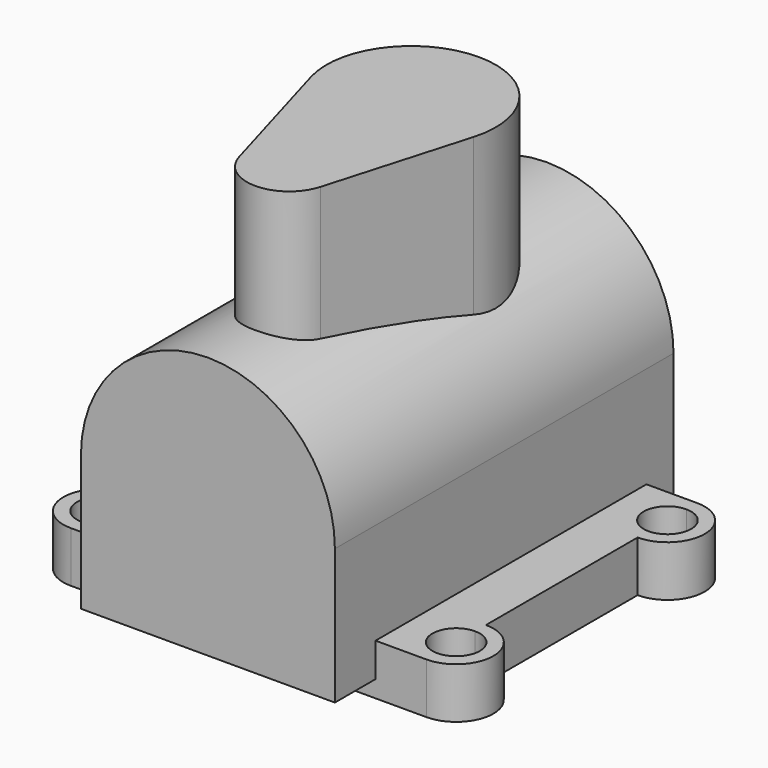
from build123d import *

# Parameters (mm, degrees)
F1_DEPTH      = 125
F3_DEPTH      = 5
F3_DEPTH_BACK = 10
F5_DEPTH      = 75


with BuildPart() as f1:
    # F0 (on Front) → F1 (new body)
    with BuildSketch(Plane.XZ):
        with BuildLine():
            Line((-37.5, 0), (-37.5, -40))
            Line((-37.5, -40), (37.5, -40))
            Line((37.5, -40), (37.5, 0))
            ThreePointArc((37.5, 0), (0, 37.5), (-37.5, 0))
        make_face()
        with BuildLine():
            Line((-37.5, 0), (-37.5, -40))
            Line((-37.5, -40), (37.5, -40))
            Line((37.5, -40), (37.5, 0))
            ThreePointArc((37.5, 0), (0, 37.5), (-37.5, 0))
        make_face()
    extrude(amount=F1_DEPTH)

    # F2 (on face) → F3 (join, two sides)
    with BuildSketch(Plane(origin=(0, 0, -40), x_dir=(1, 0, 0), z_dir=(0, 0, -1))) as f3_sk:
        with BuildLine():
            Line((52.5, 106), (52.5, 110))
            Line((52.5, 110), (-52.5, 110))
            Line((-52.5, 110), (-52.5, 106))
            ThreePointArc((-52.5, 106), (-47.550253, 103.949747), (-45.5, 99))
            ThreePointArc((-45.5, 99), (-47.550253, 94.050253), (-52.5, 92))
            Line((-52.5, 92), (-52.5, 88))
            Line((-52.5, 88), (-52.5, 32))
            Line((-52.5, 32), (-52.5, 28))
            ThreePointArc((-52.5, 28), (-47.550253, 25.949747), (-45.5, 21))
            ThreePointArc((-45.5, 21), (-47.550253, 16.050253), (-52.5, 14))
            Line((-52.5, 14), (-52.5, 10))
            Line((-52.5, 10), (52.5, 10))
            Line((52.5, 10), (52.5, 14))
            ThreePointArc((52.5, 14), (45.5, 21), (52.5, 28))
            Line((52.5, 28), (52.5, 32))
            Line((52.5, 32), (52.5, 88))
            Line((52.5, 88), (52.5, 92))
            ThreePointArc((52.5, 92), (45.5, 99), (52.5, 106))
        make_face()
        with BuildLine():
            ThreePointArc((52.5, 88), (63.5, 99), (52.5, 110))
            Line((52.5, 110), (52.5, 106))
            ThreePointArc((52.5, 106), (57.449747, 103.949747), (59.5, 99))
            ThreePointArc((59.5, 99), (57.449747, 94.050253), (52.5, 92))
            Line((52.5, 92), (52.5, 88))
        make_face()
        with BuildLine():
            Line((-52.5, 106), (-52.5, 110))
            ThreePointArc((-52.5, 110), (-63.5, 99), (-52.5, 88))
            Line((-52.5, 88), (-52.5, 92))
            ThreePointArc((-52.5, 92), (-59.5, 99), (-52.5, 106))
        make_face()
        with BuildLine():
            ThreePointArc((52.5, 10), (63.5, 21), (52.5, 32))
            Line((52.5, 32), (52.5, 28))
            ThreePointArc((52.5, 28), (57.449747, 25.949747), (59.5, 21))
            ThreePointArc((59.5, 21), (57.449747, 16.050253), (52.5, 14))
            Line((52.5, 14), (52.5, 10))
        make_face()
        with BuildLine():
            Line((-52.5, 28), (-52.5, 32))
            ThreePointArc((-52.5, 32), (-63.5, 21), (-52.5, 10))
            Line((-52.5, 10), (-52.5, 14))
            ThreePointArc((-52.5, 14), (-59.5, 21), (-52.5, 28))
        make_face()
    extrude(amount=F3_DEPTH)
    extrude(f3_sk.sketch, amount=-F3_DEPTH_BACK)

    # F4 (on Top) → F5 (join)
    with BuildSketch(Plane.XY):
        with BuildLine():
            Line((-24.016134, -56.944444), (-12.008067, -98.472222))
            ThreePointArc((-12.008067, -98.472222), (0, -107.5), (12.008067, -98.472222))
            Line((12.008067, -98.472222), (24.016134, -56.944444))
            ThreePointArc((24.016134, -56.944444), (0, -25), (-24.016134, -56.944444))
        make_face()
    extrude(amount=F5_DEPTH)


solid = f1.part
